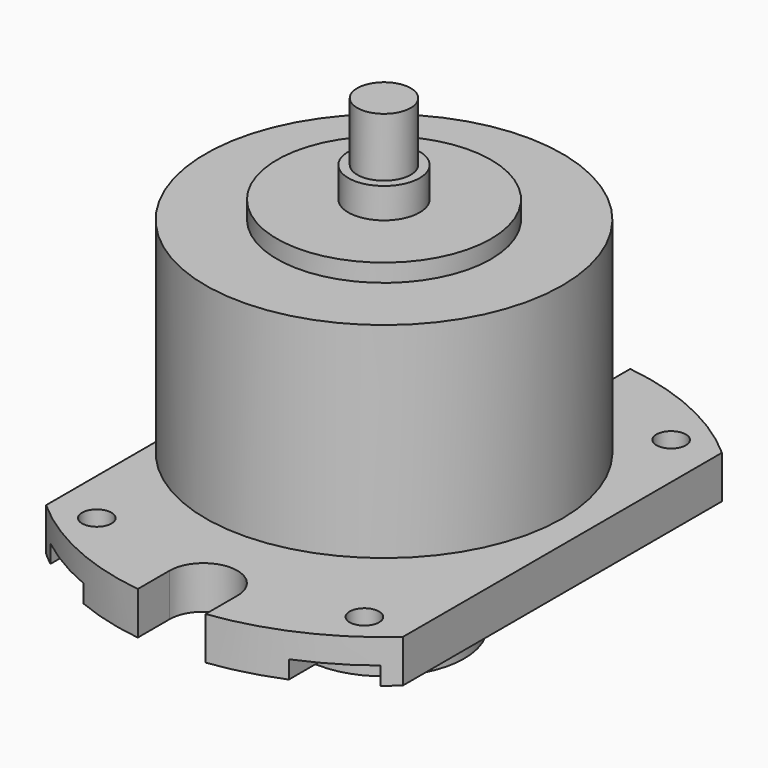
from build123d import *

# Parameters (mm, degrees)
SKETCH001_W     = 14.830339
SKETCH001_H     = 37.894496
SKETCH001_W_2   = 11.332046
SKETCH001_H_2   = 38.12416
POCKET_DEPTH    = 7.401
SKETCH002_R     = 0.825
POCKET001_DEPTH = 7.401
POCKET002_DEPTH = 1


with BuildPart() as part:
    # Sketch → Revolution (revolve)
    with BuildSketch(Plane.XZ):
        Polygon((0, 0), (4.5, 0), (4.5, 3.5), (1.5, 3.5), (1.5, 4), (4, 4), (4, 5), (15, 5), (15, 7.4), (1.5, 7.4), (1.5, 8.7), (10, 8.7), (10, 20.2), (6, 20.2), (6, 21.2), (2, 21.2), (2, 22.9), (1.5, 22.9), (1.5, 26.2), (0, 26.2), align=None)
    revolve(axis=Axis((0, 0, 0), (0, 0, 1)))

    # Sketch001 (on Face9 of Revolution) → Pocket (cut, through all)
    with BuildSketch(Plane(origin=(0, 0, 7.4), x_dir=(-1, 0, 0), z_dir=(0, 0, 1))):
        with Locations((-17.415169, -0.751627)):
            Rectangle(SKETCH001_W, SKETCH001_H)
        with Locations((15.666023, -0.866459)):
            Rectangle(SKETCH001_W_2, SKETCH001_H_2)
    extrude(amount=-POCKET_DEPTH, mode=Mode.SUBTRACT)

    # Sketch002 (on Face12 of Pocket) → Pocket001 (cut, through all)
    with BuildSketch(Plane(origin=(0, 0, 7.4), x_dir=(-1, 0, 0), z_dir=(0, 0, 1))):
        with Locations((-7.5, 10.75)):
            Circle(SKETCH002_R)
        with Locations((7.5, 10.75)):
            Circle(SKETCH002_R)
        with Locations((7.5, -10.75)):
            Circle(SKETCH002_R)
        with Locations((-7.5, -10.75)):
            Circle(SKETCH002_R)
        with BuildLine():
            ThreePointArc((1.9, 17.255435), (0, 19.155435), (-1.9, 17.255435))
            Line((-1.9, 17.255435), (-1.9, 12.65))
            ThreePointArc((-1.9, 12.65), (0, 10.75), (1.9, 12.65))
            Line((1.9, 12.65), (1.9, 17.255435))
        make_face()
        with BuildLine():
            ThreePointArc((-1.9, -16.247692), (0, -18.147692), (1.9, -16.247692))
            Line((1.9, -16.247692), (1.9, -12.65))
            ThreePointArc((1.9, -12.65), (0, -10.75), (-1.9, -12.65))
            Line((-1.9, -12.65), (-1.9, -16.247692))
        make_face()
    extrude(amount=-POCKET001_DEPTH, mode=Mode.SUBTRACT)

    # Sketch003 (on Face7 of Pocket001) → Pocket002 (cut)
    with BuildSketch(Plane(origin=(0, 0, 5), x_dir=(1, 0, 0), z_dir=(0, 0, -1))):
        with BuildLine():
            ThreePointArc((-5.75, 14.896887), (-7.5, 16.646887), (-9.25, 14.896887))
            Line((-9.25, 14.896887), (-9.25, 10.75))
            ThreePointArc((-9.25, 10.75), (-7.5, 9), (-5.75, 10.75))
            Line((-5.75, 10.75), (-5.75, 14.896887))
        make_face()
        with BuildLine():
            ThreePointArc((9.25, 14.479509), (7.5, 16.229509), (5.75, 14.479509))
            Line((5.75, 14.479509), (5.75, 10.75))
            ThreePointArc((5.75, 10.75), (7.5, 9), (9.25, 10.75))
            Line((9.25, 10.75), (9.25, 14.479509))
        make_face()
        with BuildLine():
            ThreePointArc((5.75, -14.269869), (7.5, -16.019869), (9.25, -14.269869))
            Line((9.25, -14.269869), (9.25, -10.75))
            ThreePointArc((9.25, -10.75), (7.5, -9), (5.75, -10.75))
            Line((5.75, -10.75), (5.75, -14.269869))
        make_face()
        with BuildLine():
            ThreePointArc((-9.25, -14.048632), (-7.5, -15.798632), (-5.75, -14.048632))
            Line((-5.75, -14.048632), (-5.75, -10.75))
            ThreePointArc((-5.75, -10.75), (-7.5, -9), (-9.25, -10.75))
            Line((-9.25, -10.75), (-9.25, -14.048632))
        make_face()
    extrude(amount=-POCKET002_DEPTH, mode=Mode.SUBTRACT)


solid = part.part
